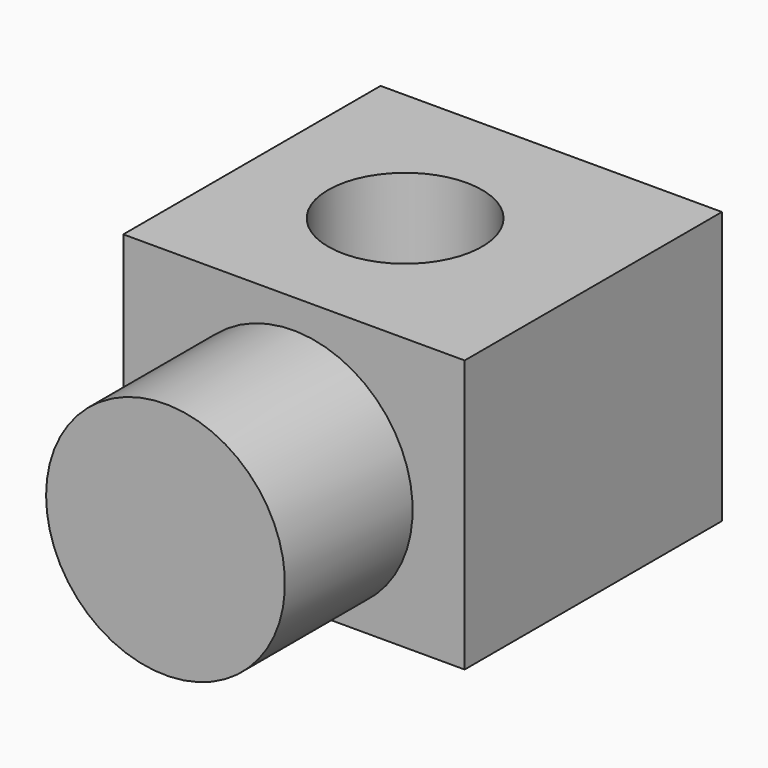
from build123d import *

# Parameters (mm, degrees)
F2_DEPTH = 89.8609068245
F3_R     = 39.4433228708
F4_DEPTH = 158.9131560177
F6_D     = 50.8


with BuildPart() as f2:
    # F0 (on Top) → F2 (new body)
    with BuildSketch(Plane.XY):
        Polygon((0, -106.1998531222), (0, 0), (-112.7292439342, 0), (-112.7292439342, -106.1998531222), (-56.3646219671, -106.1998531222), (-43.278105557, -106.1998531222), align=None)
    extrude(amount=F2_DEPTH)

    # F3 (on face) → F4 (join)
    with BuildSketch(Plane(origin=(0, 0, 0), x_dir=(-1, 0, 0), z_dir=(0, 1, 0))):
        with Locations((56.6163137555, 40.8002994955)):
            Circle(F3_R)
    extrude(amount=-F4_DEPTH)

    # F6 (through all)
    with Locations(Plane(origin=(0, 0, 0), x_dir=(1, 0, 0), z_dir=(0, 0, -1))):
        with Locations((-61.582095921, 53.7865236402)):
            Hole(F6_D / 2)


solid = f2.part
